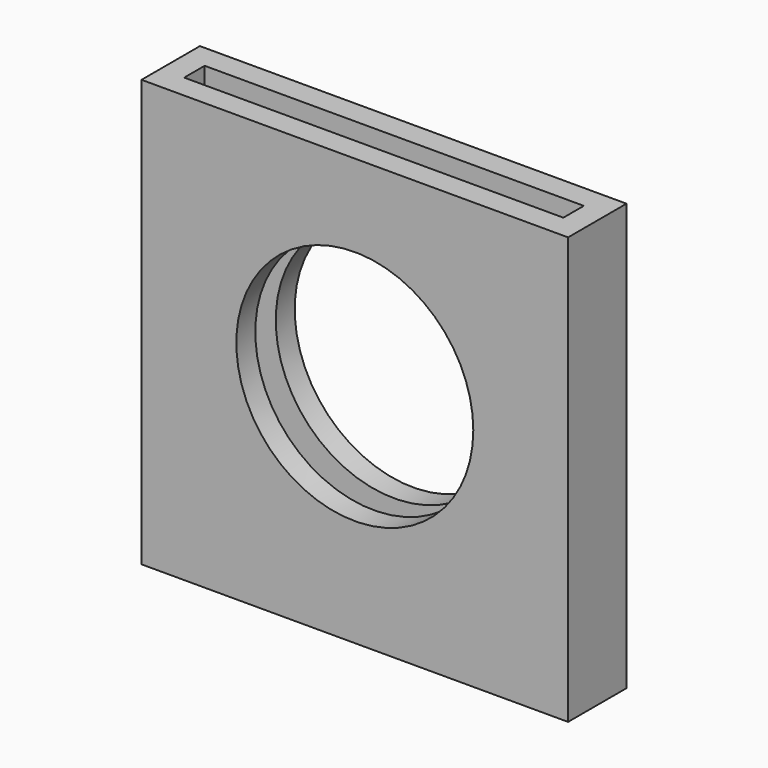
from build123d import *

# Parameters (mm, degrees)
F0_W     = 57.15
F0_H     = 9.779
F0_W_2   = 50.8
F0_H_2   = 3.429
F1_DEPTH = 57.15
F2_DEPTH = 6.35
F3_R     = 15.875
F4_DEPTH = 9.78


with BuildPart() as f1:
    # F0 (on Top) → F1 (new body)
    with BuildSketch(Plane.XY):
        Rectangle(F0_W, F0_H)
        Rectangle(F0_W_2, F0_H_2, mode=Mode.SUBTRACT)
    extrude(amount=F1_DEPTH)

    # F0 (on Top) → F2 (join)
    with BuildSketch(Plane.XY):
        Rectangle(F0_W_2, F0_H_2)
    extrude(amount=F2_DEPTH)

    # F3 (on face) → F4 (cut, through all)
    with BuildSketch(Plane.XZ.offset(4.8895)):
        with Locations((0, 30.261343)):
            Circle(F3_R)
    extrude(amount=-F4_DEPTH, mode=Mode.SUBTRACT)


solid = f1.part
